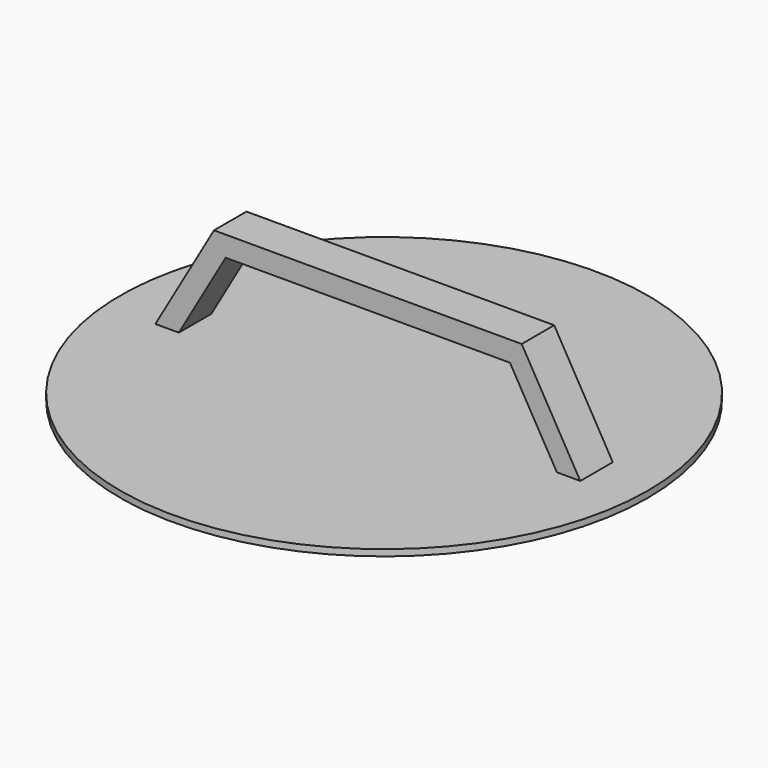
from build123d import *

# Parameters (mm, degrees)
F0_R     = 82.55
F1_DEPTH = 2
F3_DEPTH = 6.35


with BuildPart() as f1:
    # F0 (on Top) → F1 (new body)
    with BuildSketch(Plane.XY):
        Circle(F0_R)
    extrude(amount=F1_DEPTH)

    # F2 (on Front) → F3 (join, symmetric)
    with BuildSketch(Plane.XZ):
        Polygon((48.116174, 33.75), (-48.116174, 33.75), (-66.447045, 2), (-59.114697, 2), (-44.45, 27.4), (44.45, 27.4), (59.114697, 2), (66.447045, 2), align=None)
    extrude(amount=F3_DEPTH, both=True)


solid = f1.part
